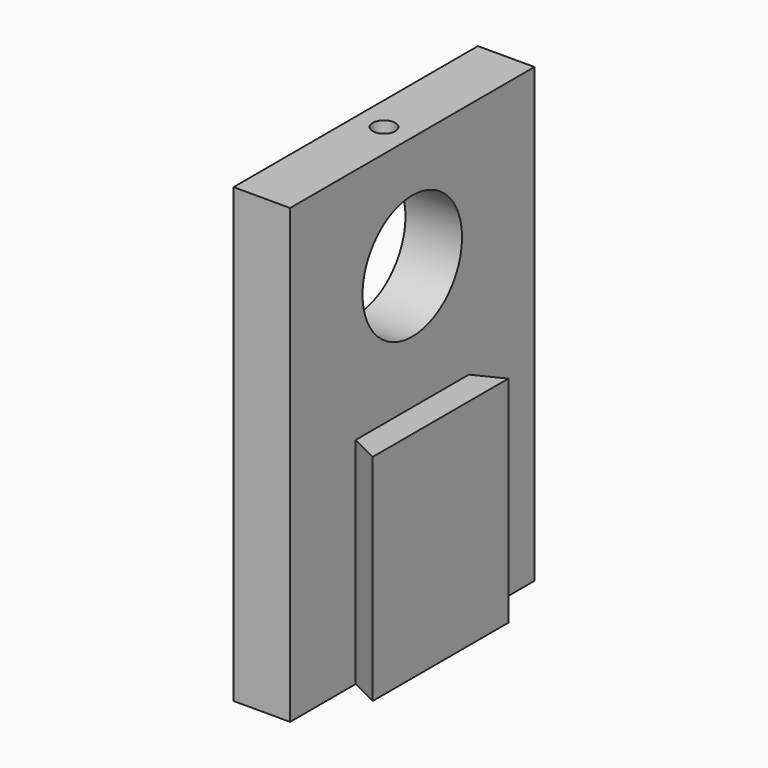
from build123d import *

# Parameters (mm, degrees)
PAD_DEPTH       = 38
SKETCH_W        = 10
SKETCH_H        = 54
PAD001_DEPTH    = 80
SKETCH002_R     = 11
POCKET_DEPTH    = 25.001
SKETCH003_R     = 2
POCKET001_DEPTH = 10


with BuildPart() as part:
    # Sketch001 → Pad (new body)
    with BuildSketch(Plane.XY):
        Polygon((-15, 0), (-15, 14.5), (-10, 12), (-10, 42), (-15, 39.5), (-15, 54), (-25, 54), (-25, 0), align=None)
    extrude(amount=PAD_DEPTH)

    # Sketch → Pad001 (join)
    with BuildSketch(Plane.XY):
        with Locations((-20, 27)):
            Rectangle(SKETCH_W, SKETCH_H)
    extrude(amount=PAD001_DEPTH)

    # Sketch002 → Pocket (cut, through all)
    with BuildSketch(Plane.YZ):
        with Locations((27, 60)):
            Circle(SKETCH002_R)
    extrude(amount=-POCKET_DEPTH, mode=Mode.SUBTRACT)

    # Sketch003 → Pocket001 (cut)
    with BuildSketch(Plane.XY.offset(80)):
        with Locations((-20, 27)):
            Circle(SKETCH003_R)
    extrude(amount=-POCKET001_DEPTH, mode=Mode.SUBTRACT)


solid = part.part
